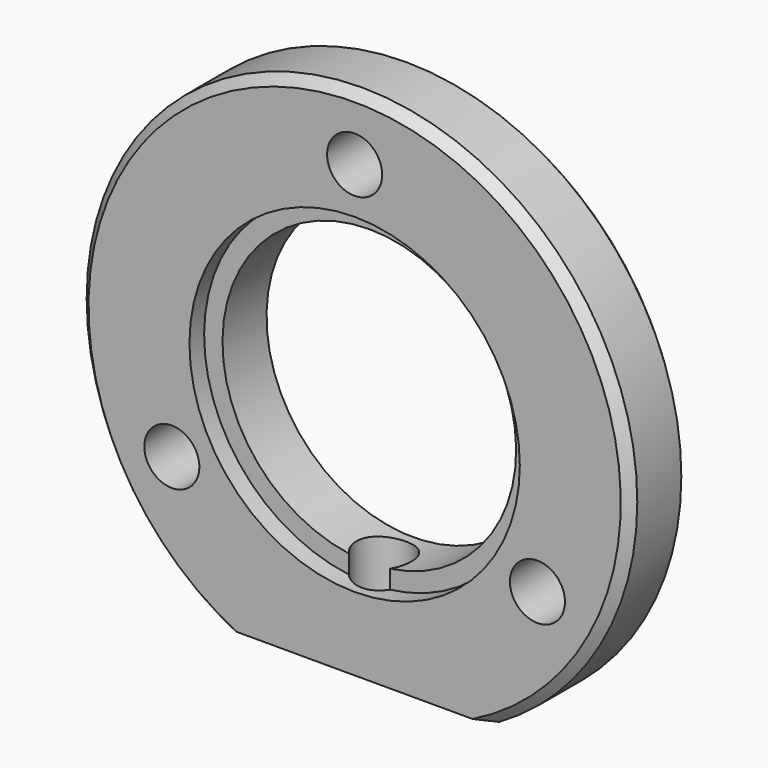
from build123d import *

# Parameters (mm, degrees)
F2_SIZE  = 0.5
F3_W     = 18
F3_H     = 5
F4_DEPTH = 4.001
F5_R     = 1.5
F6_DEPTH = 5.1428832774
F7_R     = 1.5
F8_DEPTH = 4.0010001


with BuildPart() as f1:
    # F0 (on Right) → F1 (revolve)
    with BuildSketch(Plane.YZ):
        Polygon((0, 9), (0, 8), (3, 8), (3, 15), (-1, 15), (-1, 9), align=None)
    revolve(axis=Axis((0, 22.7407575149, 0), (0, 1, 0)))

    # F2
    f2_edges = [f1.edges().sort_by_distance(p)[0] for p in [
        (0, 3, -15),
        (0, -1, -15),
    ]]
    chamfer(f2_edges, length=F2_SIZE)

    # F3 (on face) → F4 (cut, through all)
    with BuildSketch(Plane.XZ.offset(1)):
        with Locations((0, -15.5)):
            Rectangle(F3_W, F3_H)
    extrude(amount=-F4_DEPTH, mode=Mode.SUBTRACT)

    # F5 (on face) → F6 (cut, through all)
    with BuildSketch(Plane(origin=(0, 0, -13), x_dir=(1, 0, 0), z_dir=(0, 0, -1))):
        with Locations((0, -1)):
            Circle(F5_R)
    extrude(amount=-F6_DEPTH, mode=Mode.SUBTRACT)

    # F7 (on face) → F8 (cut, through all)
    with BuildSketch(Plane.XZ.offset(1)):
        with Locations((0, 11.5)):
            Circle(F7_R)
        with Locations((-9.9592921435, -5.75)):
            Circle(F7_R)
        with Locations((9.9592921435, -5.75)):
            Circle(F7_R)
    extrude(amount=-F8_DEPTH, mode=Mode.SUBTRACT)


solid = f1.part
